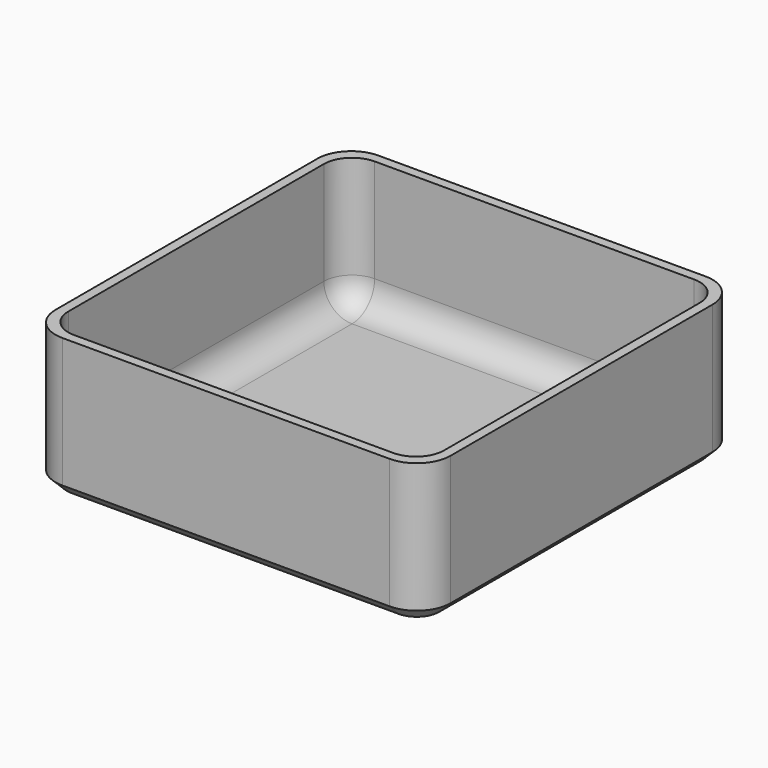
from build123d import *

# Parameters (mm, degrees)
F0_W     = 70
F0_H     = 70
F0_W_2   = 66.6
F0_H_2   = 66.6
F1_DEPTH = 25
F2_W     = 66.6
F2_H     = 66.6
F3_DEPTH = 23.3
F4_R     = 5
F5_R     = 6
F6_SIZE  = 2


with BuildPart() as f1:
    # F0 (on Top) → F1 (new body)
    with BuildSketch(Plane.XY):
        Rectangle(F0_W, F0_H)
        Rectangle(F0_W_2, F0_H_2, mode=Mode.SUBTRACT)
        Rectangle(F0_W, F0_H)
        Rectangle(F0_W_2, F0_H_2, mode=Mode.SUBTRACT)
        Rectangle(F0_W_2, F0_H_2)
    extrude(amount=F1_DEPTH)

    # F2 (on face) → F3 (cut)
    with BuildSketch(Plane.XY.offset(25)):
        Rectangle(F2_W, F2_H)
    extrude(amount=-F3_DEPTH, mode=Mode.SUBTRACT)

    # F4
    f4_edges = [f1.edges().sort_by_distance(p)[0] for p in [
        (-33.3, 0, 1.7),
        (33.3, 0, 1.7),
        (-33.3, 33.3, 13.35),
        (0, 33.3, 1.7),
        (-33.3, -33.3, 13.35),
        (0, -33.3, 1.7),
        (33.3, -33.3, 13.35),
        (33.3, 33.3, 13.35),
    ]]
    fillet(f4_edges, radius=F4_R)

    # F5
    f5_edges = [f1.edges().sort_by_distance(p)[0] for p in [
        (35, 35, 12.5),
        (-35, 35, 12.5),
        (35, -35, 12.5),
        (-35, -35, 12.5),
    ]]
    fillet(f5_edges, radius=F5_R)

    # F6
    f6_edges = [f1.edges().sort_by_distance(p)[0] for p in [
        (35, 0, 0),
    ]]
    chamfer(f6_edges, length=F6_SIZE)


solid = f1.part
